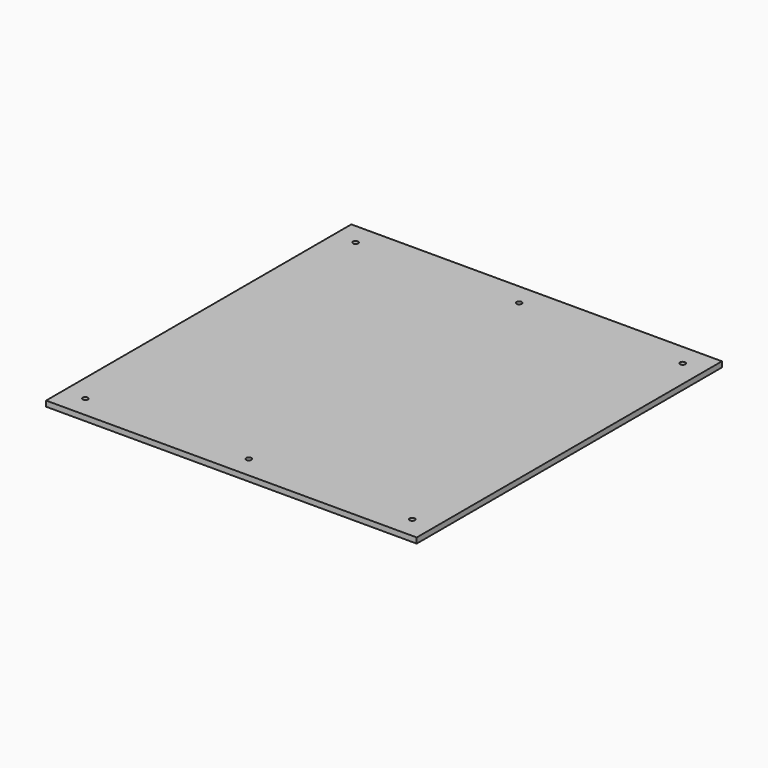
from build123d import *

# Parameters (mm, degrees)
SKETCH_W  = 340
SKETCH_H  = 350
SKETCH_R  = 2.4
PAD_DEPTH = 5


with BuildPart() as part:
    # Sketch → Pad (new body)
    with BuildSketch(Plane.XY):
        Rectangle(SKETCH_W, SKETCH_H)
        with Locations((-150, 155)):
            Circle(SKETCH_R, mode=Mode.SUBTRACT)
        with Locations((150, 155)):
            Circle(SKETCH_R, mode=Mode.SUBTRACT)
        with Locations((150, -155)):
            Circle(SKETCH_R, mode=Mode.SUBTRACT)
        with Locations((-150, -155)):
            Circle(SKETCH_R, mode=Mode.SUBTRACT)
        with Locations((0, -155)):
            Circle(SKETCH_R, mode=Mode.SUBTRACT)
        with Locations((0, 155)):
            Circle(SKETCH_R, mode=Mode.SUBTRACT)
    extrude(amount=PAD_DEPTH)


solid = part.part
